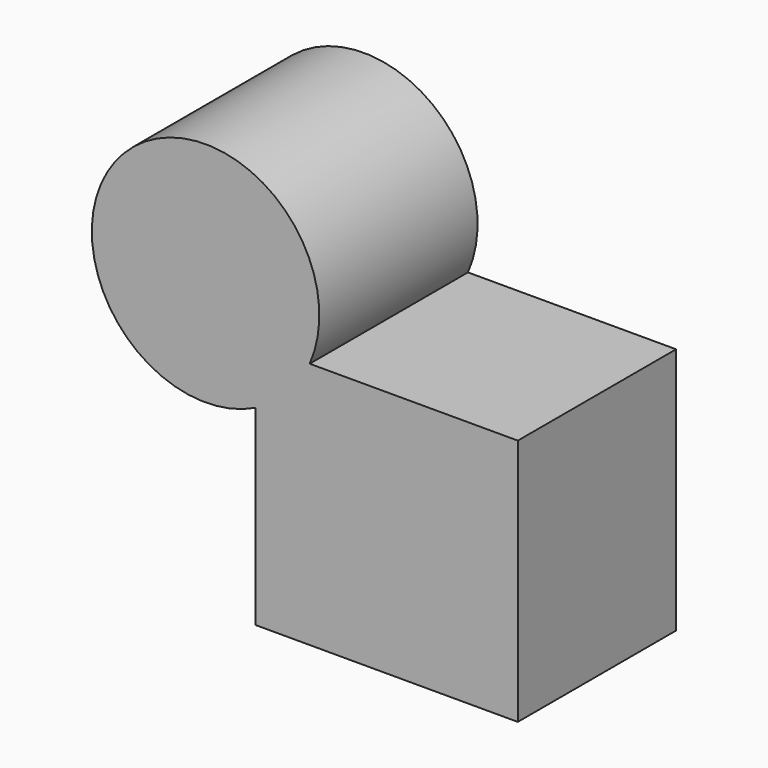
from build123d import *

# Parameters (mm, degrees)
F1_DEPTH = 50.8


with BuildPart() as f1:
    # F0 (on Front) → F1 (new body)
    with BuildSketch(Plane.XZ):
        with BuildLine():
            Line((-41.583634913, 30.5596037471), (-41.583634913, 45.0668670237))
            Line((-41.583634913, 45.0668670237), (-27.6331421375, 45.0668670237))
            ThreePointArc((-27.6331421375, 45.0668670237), (-25.7885365622, 50.8143186246), (-25.1647874728, 56.8182095885))
            ThreePointArc((-25.1647874728, 56.8182095885), (-79.1363474664, 72.3028223702), (-41.583634913, 30.5596037471))
        make_face()
        with BuildLine():
            Line((-27.6331421375, 45.0668670237), (-41.583634913, 45.0668670237))
            Line((-41.583634913, 45.0668670237), (-41.583634913, 30.5596037471))
            ThreePointArc((-41.583634913, 30.5596037471), (-33.3193072571, 36.5736274335), (-27.6331421375, 45.0668670237))
        make_face()
        with BuildLine():
            Line((25.8137658238, 45.0668670237), (-27.6331421375, 45.0668670237))
            ThreePointArc((-27.6331421375, 45.0668670237), (-33.3193072571, 36.5736274335), (-41.583634913, 30.5596037471))
            Line((-41.583634913, 30.5596037471), (-41.583634913, -18.528630957))
            Line((-41.583634913, -18.528630957), (25.8137658238, -18.528630957))
            Line((25.8137658238, -18.528630957), (25.8137658238, 45.0668670237))
        make_face()
    extrude(amount=F1_DEPTH)


solid = f1.part
